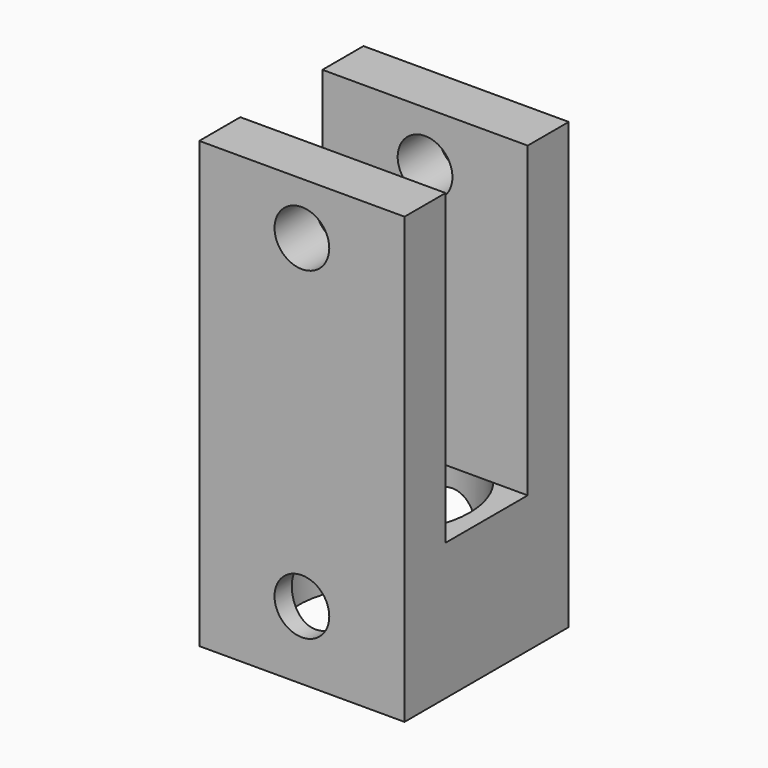
from build123d import *

# Parameters (mm, degrees)
F0_W     = 30
F0_H     = 30
F0_R     = 12.5
F1_DEPTH = 65
F2_W     = 2.5
F2_H     = 15
F2_W_2   = 30
F3_DEPTH = 45
F4_R     = 4
F5_DEPTH = 30.001
F6_DEPTH = 20


with BuildPart() as f1:
    # F0 (on Top) → F1 (new body)
    with BuildSketch(Plane.XY):
        Rectangle(F0_W, F0_H)
        Circle(F0_R, mode=Mode.SUBTRACT)
        Circle(F0_R)
    extrude(amount=F1_DEPTH)

    # F2 (on face) → F3 (cut)
    with BuildSketch(Plane.XY.offset(65)):
        with Locations((16.25, 0)):
            Rectangle(F2_W, F2_H)
        Rectangle(F2_W_2, F2_H)
        with Locations((-16.25, 0)):
            Rectangle(F2_W, F2_H)
    extrude(amount=-F3_DEPTH, mode=Mode.SUBTRACT)

    # F4 (on face) → F5 (cut, through all)
    with BuildSketch(Plane.XZ.offset(15)):
        with Locations((0, 10)):
            Circle(F4_R)
        with Locations((0, 57.3658570647)):
            Circle(F4_R)
    extrude(amount=-F5_DEPTH, mode=Mode.SUBTRACT)

    # F0 (on Top) → F6 (cut, through all)
    with BuildSketch(Plane.XY):
        Circle(F0_R)
    extrude(amount=F6_DEPTH, mode=Mode.SUBTRACT)


solid = f1.part
